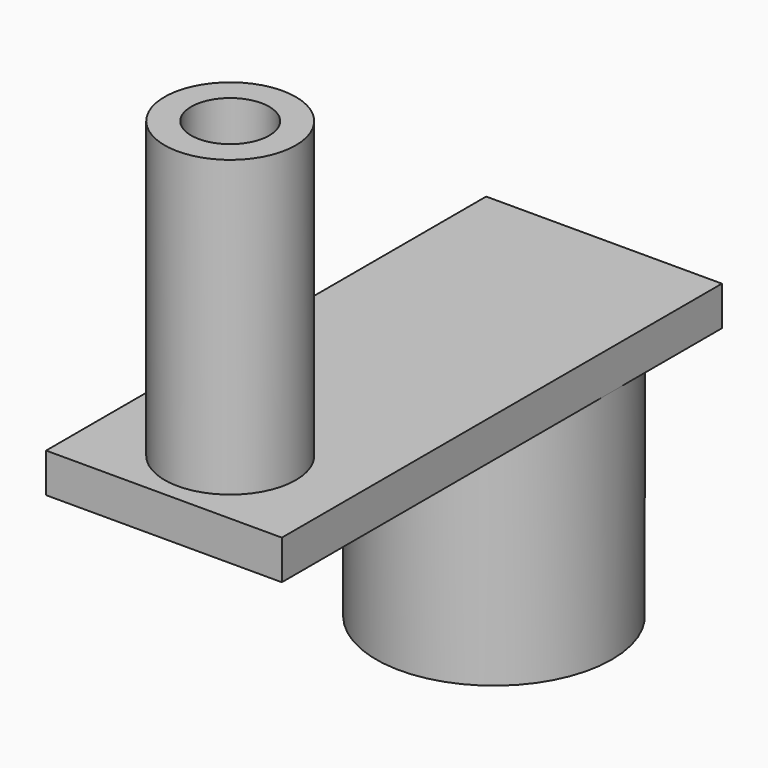
from build123d import *

# Parameters (mm, degrees)
F0_R     = 30
F1_DEPTH = 60
F2_W     = 60
F2_H     = 140
F3_DEPTH = 10
F4_R     = 16.695994
F5_DEPTH = 50
F6_R     = 16.695994
F6_R_2   = 9.933537
F7_DEPTH = 25


with BuildPart() as f1:
    # F0 (on Top) → F1 (new body)
    with BuildSketch(Plane.XY):
        Circle(F0_R)
    extrude(amount=F1_DEPTH)

    # F2 (on face) → F3 (join)
    with BuildSketch(Plane.XY.offset(60)):
        with Locations((0, -35)):
            Rectangle(F2_W, F2_H)
    extrude(amount=F3_DEPTH)

    # F4 (on face) → F5 (join)
    with BuildSketch(Plane.XY.offset(70)):
        with Locations((0, -83.919823)):
            Circle(F4_R)
    extrude(amount=F5_DEPTH)

    # F6 (on face) → F7 (join)
    with BuildSketch(Plane.XY.offset(120)):
        with Locations((0, -83.919823)):
            Circle(F6_R)
        with Locations((0, -83.919823)):
            Circle(F6_R_2, mode=Mode.SUBTRACT)
    extrude(amount=F7_DEPTH)


solid = f1.part
